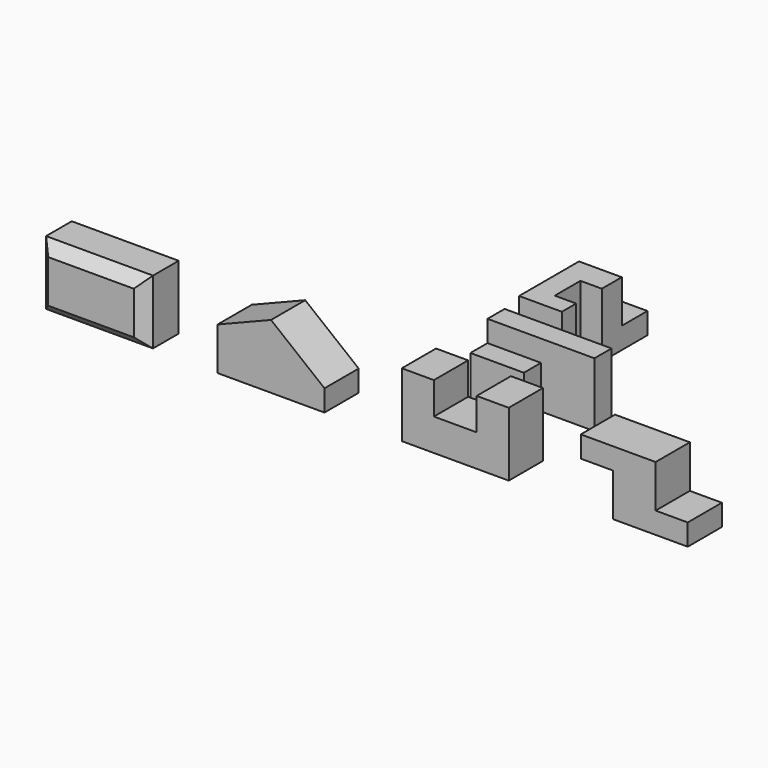
from build123d import *

# Parameters (mm, degrees)
F1_DEPTH  = 101.6
F3_DEPTH  = 254
F4_W      = 50.8
F4_H      = 101.6
F5_DEPTH  = 127
F6_W      = 76.1873728009
F6_H      = 152.4
F6_W_2    = 50.8
F7_DEPTH  = 101.6
F8_W      = 50.8
F8_H      = 76.2
F9_DEPTH  = 152.4
F11_DEPTH = 101.6
F13_DEPTH = 101.6
F14_W     = 254
F14_H     = 152.4
F15_DEPTH = 101.6
F16_SIZE  = 25.4


with BuildPart() as f1:
    # F0 (on Front) → F1 (new body)
    with BuildSketch(Plane.XZ):
        Polygon((0, 152.4), (0, 0), (254, 0), (254, 152.4), (177.8, 152.4), (177.8, 76.2), (76.2, 76.2), (76.2, 152.4), align=None)
    extrude(amount=-F1_DEPTH)


with BuildPart() as f3:
    # F2 (on Right) → F3 (new body)
    with BuildSketch(Plane.YZ):
        Polygon((203.6196578976, 101.6), (203.6196578976, 0), (305.2196578976, 0), (305.2196578976, 152.4), (254.4196578976, 152.4), (254.4196578976, 101.6), align=None)
    extrude(amount=F3_DEPTH)

    # F4 (on face) → F5 (cut)
    with BuildSketch(Plane.YZ.offset(254)):
        with Locations((229.0196578976, 50.8)):
            Rectangle(F4_W, F4_H)
    extrude(amount=-F5_DEPTH, mode=Mode.SUBTRACT)


with BuildPart() as f7:
    # F6 (on Right) → F7 (new body)
    with BuildSketch(Plane.YZ):
        with Locations((437.15617031, 85.7893498145)):
            Rectangle(F6_W, F6_H)
        with Locations((373.6624839095, 85.7893498145)):
            Rectangle(F6_W_2, F6_H)
        Polygon((526.0624839095, 161.9893498145), (475.2498567104, 161.9893498145), (475.2498567104, 9.5893498145), (602.2624839095, 9.5893498145), (602.2624839095, 60.3893498145), (526.0624839095, 60.3893498145), align=None)
    extrude(amount=F7_DEPTH)

    # F8 (on face) → F9 (cut)
    with BuildSketch(Plane.XY.offset(161.9893498145)):
        with Locations((76.2, 428.6984247208)):
            Rectangle(F8_W, F8_H)
    extrude(amount=-F9_DEPTH, mode=Mode.SUBTRACT)


with BuildPart() as f11:
    # F10 (on Front) → F11 (new body)
    with BuildSketch(Plane.XZ):
        Polygon((602.8445832853, 152.4), (425.0445832853, 152.4), (425.0445832853, 101.6), (501.2445832853, 101.6), (501.2445832853, 0), (679.0445832853, 0), (679.0445832853, 50.8), (602.8445832853, 50.8), align=None)
    extrude(amount=-F11_DEPTH)


with BuildPart() as f13:
    # F12 (on Front) → F13 (new body)
    with BuildSketch(Plane.XZ):
        Polygon((-437.6706745207, 0), (-183.6706745207, 0), (-183.6706745207, 50.8), (-310.6706745207, 152.4), (-437.6706745207, 101.6), align=None)
    extrude(amount=-F13_DEPTH)


with BuildPart() as f15:
    # F14 (on Front) → F15 (new body)
    with BuildSketch(Plane.XZ):
        with Locations((-738.2608056068, 60.9033322741)):
            Rectangle(F14_W, F14_H)
    extrude(amount=-F15_DEPTH)

    # F16
    f16_edges = [f15.edges().sort_by_distance(p)[0] for p in [
        (-611.260806, 0, 60.903332),
        (-738.260806, 0, 137.103332),
        (-865.260806, 0, 60.903332),
        (-738.260806, 0, -15.296668),
    ]]
    chamfer(f16_edges, length=F16_SIZE)


solid = Compound([f1.part, f3.part, f7.part, f11.part, f13.part, f15.part])
